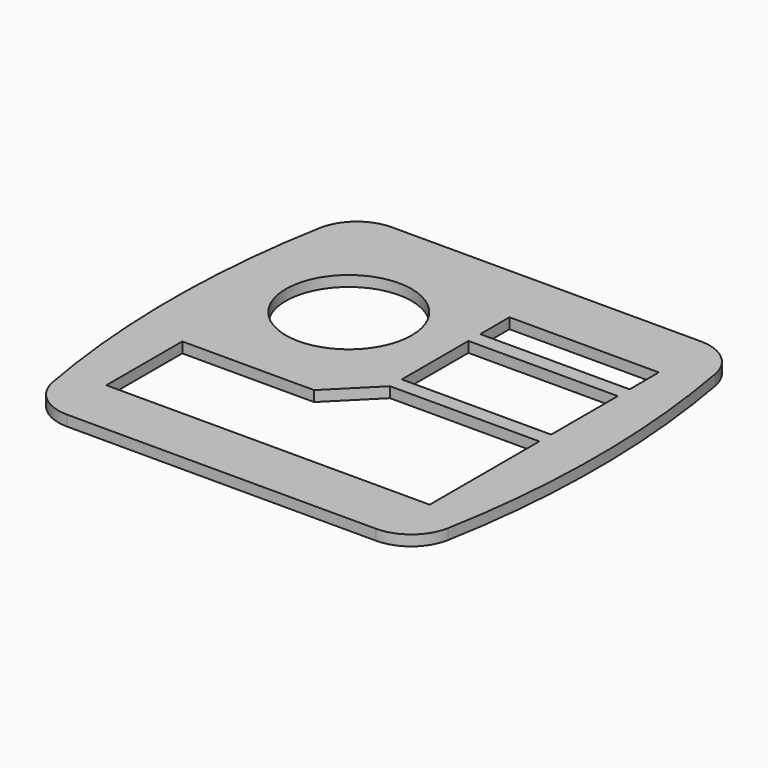
from build123d import *

# Parameters (mm, degrees)
F0_R     = 4.5466
F0_W     = 10.795
F0_H     = 6.0198
F0_H_2   = 2.6416
F1_DEPTH = 0.762


with BuildPart() as f1:
    # F0 (on Top) → F1 (new body)
    with BuildSketch(Plane.XY):
        with BuildLine():
            ThreePointArc((-14.2875, 2.604771), (-13.197614, 0.73665), (-11.164126, 0))
            Line((-11.164126, 0), (11.164126, 0))
            ThreePointArc((11.164126, 0), (13.197614, 0.73665), (14.2875, 2.604771))
            ThreePointArc((14.2875, 2.604771), (15.3797, 14.6685), (14.2875, 26.732229))
            ThreePointArc((14.2875, 26.732229), (13.197614, 28.60035), (11.164126, 29.337))
            Line((11.164126, 29.337), (-11.164126, 29.337))
            ThreePointArc((-11.164126, 29.337), (-13.197614, 28.60035), (-14.2875, 26.732229))
            ThreePointArc((-14.2875, 26.732229), (-15.3797, 14.6685), (-14.2875, 2.604771))
        make_face()
        Polygon((0.889, 14.097), (11.684, 14.097), (11.684, 4.191), (-11.684, 4.191), (-11.684, 11.049), (-2.159, 11.049), align=None, mode=Mode.SUBTRACT)
        with Locations((-6.579606, 19.7104)):
            Circle(F0_R, mode=Mode.SUBTRACT)
        with Locations((6.2865, 18.1737)):
            Rectangle(F0_W, F0_H, mode=Mode.SUBTRACT)
        with Locations((6.2865, 23.5712)):
            Rectangle(F0_W, F0_H_2, mode=Mode.SUBTRACT)
    extrude(amount=F1_DEPTH)


solid = f1.part
